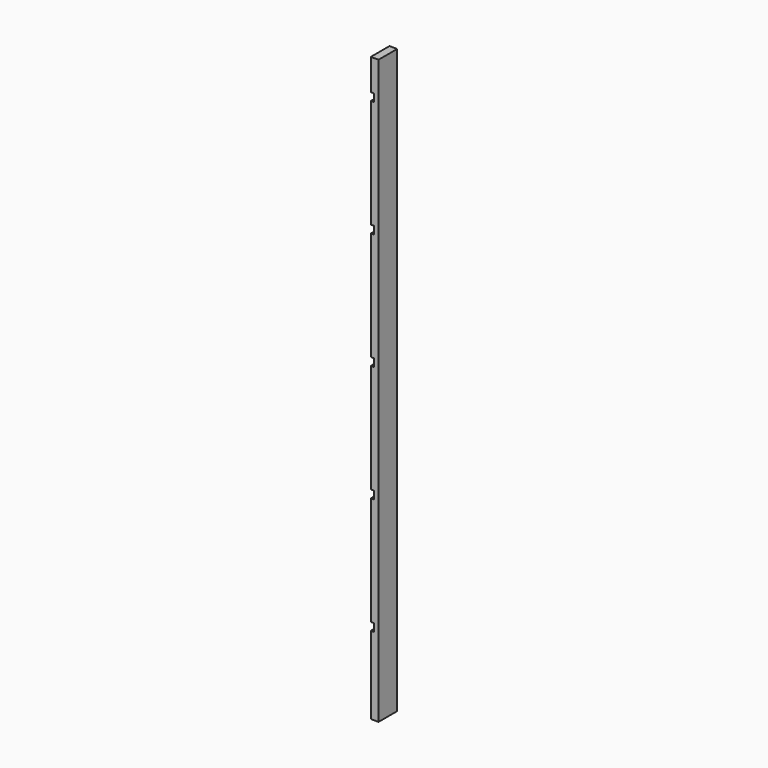
from build123d import *

# Parameters (mm, degrees)
F0_W     = 60
F0_H     = 1500
F1_DEPTH = 20
F2_W     = 60
F2_H     = 20
F3_DEPTH = 8


with BuildPart() as f1:
    # F0 (on Right) → F1 (new body)
    with BuildSketch(Plane.YZ):
        with Locations((-30, 750)):
            Rectangle(F0_W, F0_H)
    extrude(amount=F1_DEPTH)

    # F2 (on face) → F3 (cut)
    with BuildSketch(Plane(origin=(0, 0, 0), x_dir=(0, -1, 0), z_dir=(-1, 0, 0))):
        with Locations((30, 210)):
            Rectangle(F2_W, F2_H)
        with Locations((30, 510)):
            Rectangle(F2_W, F2_H)
        with Locations((30, 810)):
            Rectangle(F2_W, F2_H)
        with Locations((30, 1110)):
            Rectangle(F2_W, F2_H)
        with Locations((30, 1410)):
            Rectangle(F2_W, F2_H)
    extrude(amount=-F3_DEPTH, mode=Mode.SUBTRACT)


solid = f1.part
